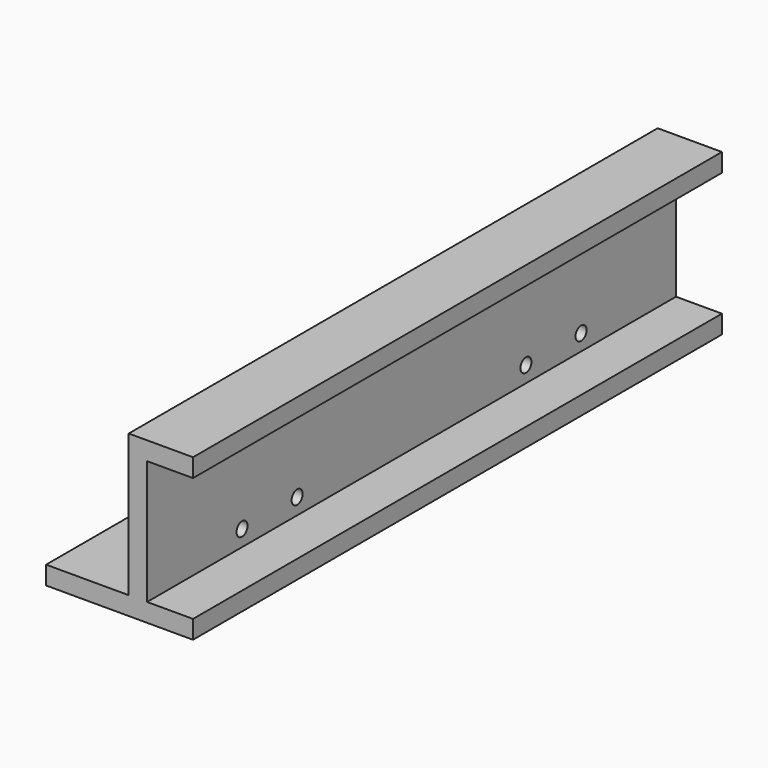
from build123d import *

# Parameters (mm, degrees)
PAD023_DEPTH    = 144
SKETCH036_R     = 1.5
POCKET004_DEPTH = 4
SKETCH037_R     = 2.75
POCKET005_DEPTH = 2


with BuildPart() as left:
    # Sketch035 → Pad023 (new body)
    with BuildSketch(Plane.XZ):
        Polygon((0, 0), (0, -4), (10, -4), (10, -31), (0, -31), (0, -35), (32, -35), (32, -31), (14, -31), (14, -4), (14, 0), align=None)
    extrude(amount=PAD023_DEPTH)

    # Sketch036 (on Face12 of Pad023) → Pocket004 (cut)
    with BuildSketch(Plane(origin=(14, 0, 0), x_dir=(0, 0, 1), z_dir=(1, 0, 0))):
        with Locations((-7.5, 118.15)):
            Circle(SKETCH036_R)
        with Locations((-7.5, 103.15)):
            Circle(SKETCH036_R)
        with Locations((-27.5, 103.15)):
            Circle(SKETCH036_R)
        with Locations((-27.5, 118.15)):
            Circle(SKETCH036_R)
        with Locations((-27.5, 40.85)):
            Circle(SKETCH036_R)
        with Locations((-27.5, 25.85)):
            Circle(SKETCH036_R)
        with Locations((-7.5, 25.85)):
            Circle(SKETCH036_R)
        with Locations((-7.5, 40.85)):
            Circle(SKETCH036_R)
    extrude(amount=-POCKET004_DEPTH, mode=Mode.SUBTRACT)

    # Sketch037 (on Face6 of Pocket004) → Pocket005 (cut)
    with BuildSketch(Plane(origin=(14, 0, 0), x_dir=(0, 0, 1), z_dir=(1, 0, 0))):
        with Locations((-7.5, 118.15)):
            Circle(SKETCH037_R)
        with Locations((-7.5, 103.15)):
            Circle(SKETCH037_R)
        with Locations((-27.5, 103.15)):
            Circle(SKETCH037_R)
        with Locations((-27.5, 118.15)):
            Circle(SKETCH037_R)
        with Locations((-27.5, 40.85)):
            Circle(SKETCH037_R)
        with Locations((-27.5, 25.85)):
            Circle(SKETCH037_R)
        with Locations((-7.5, 25.85)):
            Circle(SKETCH037_R)
        with Locations((-7.5, 40.85)):
            Circle(SKETCH037_R)
    extrude(amount=-POCKET005_DEPTH, mode=Mode.SUBTRACT)


with BuildPart() as left_1:
    # Body011 placement: moved
    add(left.part.moved(Location((-66, -59.5, 31))))


with BuildPart() as right:
    # Part__Mirroring: instance of Left
    add(left_1.part.mirror(Plane(origin=(0, 0, 0), x_dir=(0, -1, 0), z_dir=(1, 0, 0))))


solid = right.part
